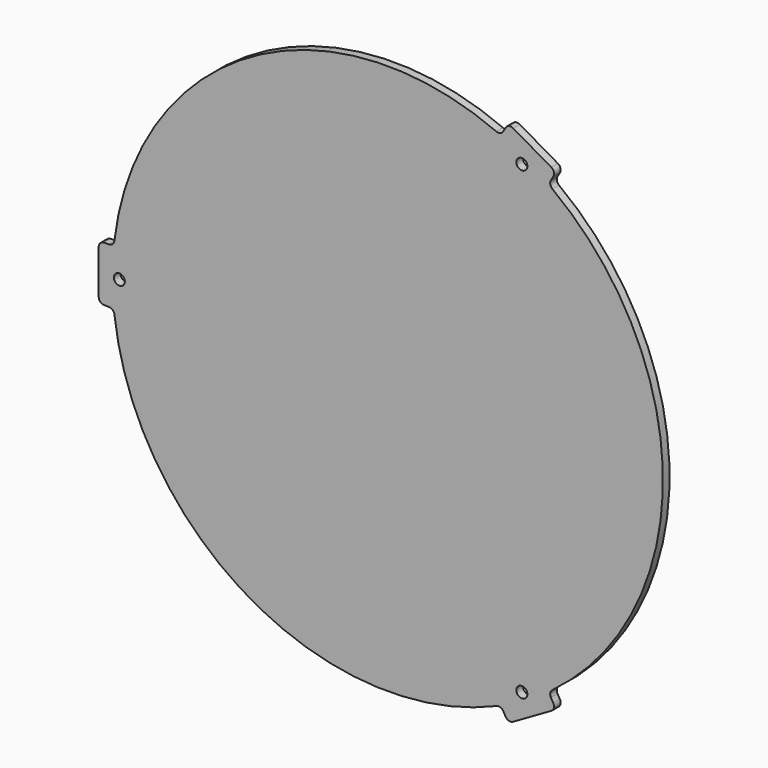
from build123d import *

# Parameters (mm, degrees)
F0_R     = 2
F1_DEPTH = 3
F2_R     = 2
F3_R     = 2


with BuildPart() as f1:
    # F0 (on Front) → F1 (new body)
    with BuildSketch(Plane.XZ):
        with BuildLine():
            Line((-105, -10), (-99.498744, -10))
            ThreePointArc((-99.498744, -10), (-50, -86.60254), (41.089118, -91.16844))
            Line((41.089118, -91.16844), (43.839746, -95.932667))
            Line((43.839746, -95.932667), (61.160254, -85.932667))
            Line((61.160254, -85.932667), (58.409626, -81.16844))
            ThreePointArc((58.409626, -81.16844), (100, 0), (58.409626, 81.16844))
            Line((58.409626, 81.16844), (61.160254, 85.932667))
            Line((61.160254, 85.932667), (43.839746, 95.932667))
            Line((43.839746, 95.932667), (41.089118, 91.16844))
            ThreePointArc((41.089118, 91.16844), (-50, 86.60254), (-99.498744, 10))
            Line((-99.498744, 10), (-105, 10))
            Line((-105, 10), (-105, -10))
        make_face()
        with Locations((48.749372, -84.436389)):
            Circle(F0_R, mode=Mode.SUBTRACT)
        with Locations((-97.498744, 0)):
            Circle(F0_R, mode=Mode.SUBTRACT)
        with Locations((48.749372, 84.436389)):
            Circle(F0_R, mode=Mode.SUBTRACT)
    extrude(amount=F1_DEPTH)

    # F2
    f2_edges = [f1.edges().sort_by_distance(p)[0] for p in [
        (58.409626, -1.5, 81.16844),
        (41.089118, -1.5, 91.16844),
        (58.409626, -1.5, -81.16844),
        (41.089118, -1.5, -91.16844),
        (-99.498744, -1.5, -10),
        (-99.498744, -1.5, 10),
    ]]
    fillet(f2_edges, radius=F2_R)

    # F3
    f3_edges = [f1.edges().sort_by_distance(p)[0] for p in [
        (61.160254, -1.5, 85.932667),
        (43.839746, -1.5, 95.932667),
        (-105, -1.5, 10),
        (-105, -1.5, -10),
        (43.839746, -1.5, -95.932667),
        (61.160254, -1.5, -85.932667),
    ]]
    fillet(f3_edges, radius=F3_R)


solid = f1.part
